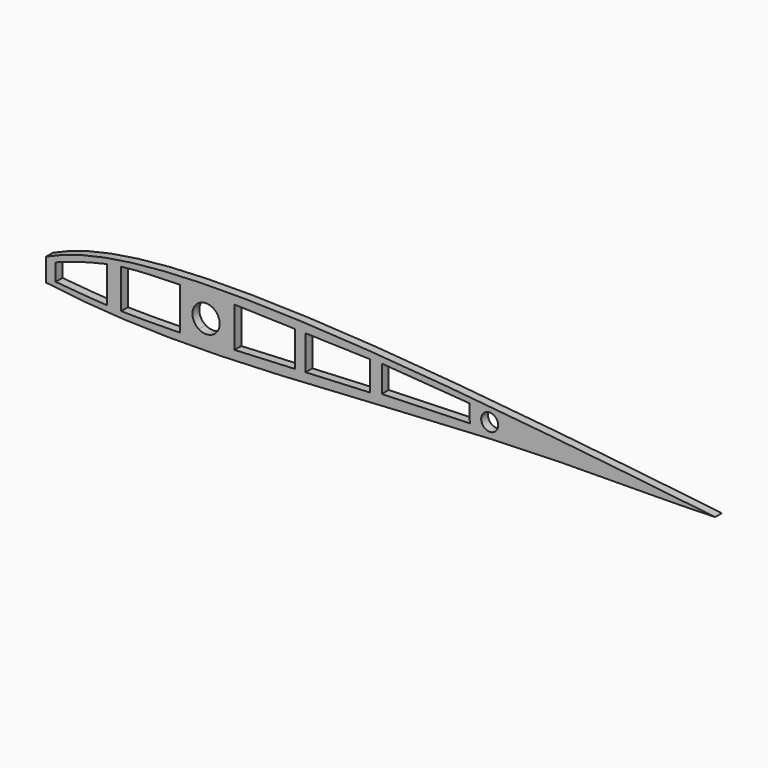
from build123d import *

# Parameters (mm, degrees)
F2_DEPTH = 2.5
F1_R     = 2.5
F3_DEPTH = 2.5
F5_DEPTH = 2.5
F6_DEPTH = 2.5
F7_DEPTH = 2.5
F8_DEPTH = 2.5


with BuildPart() as f2:
    # F0 (on Front) → F2 (new body)
    with BuildSketch(Plane.XZ):
        with BuildLine():
            add(Edge.make_bspline(
                [(-96.9805282175, -0.8100506688), (-84.7869920978, 5.1468541776), (-38.6381415733, 10.9636146396), (42.6881882799, 2.4723259958), (100, -4.047003109)],
                knots=[0, 0, 0, 0, 0.374886421, 1, 1, 1, 1], degree=3))
            add(Edge.make_bspline(
                [(-97.5447368223, -7.1186651935), (-99.939251346, -6.5508492693), (-102.885147974, -5.168950634), (-100.0067471137, -2.3789404522), (-96.9805282175, -0.8100506688)],
                knots=[0.0564585679, 0.0564585679, 0.0564585679, 0.0564585679, 0.4847104148, 1, 1, 1, 1], degree=3))
            add(Edge.make_bspline(
                [(-96.5428845142, -7.3406707446), (-96.8949965543, -7.2673488468), (-97.22905608, -7.1935231869), (-97.5447368223, -7.1186651935)],
                knots=[0, 0, 0, 0, 0.0564585679, 0.0564585679, 0.0564585679, 0.0564585679], degree=3))
            add(Edge.make_bspline(
                [(-96.5428845142, -7.3406707446), (-80.7020161693, -9.4302402111), (-44.2471235075, -11.1181020976), (41.8622965332, -3.5518856086), (82.0915186506, -4.6802794425), (100, -4.047003109)],
                knots=[0, 0, 0, 0, 0.2987594418, 0.6837410955, 1, 1, 1, 1], degree=3))
        make_face()
        with BuildLine():
            add(Edge.make_bspline(
                [(-99.8196757147, -4.047003109), (-99.3821638101, -3.2227137691), (-97.9006497107, -2.3042858417), (-96.3385477662, -1.6362179573)],
                knots=[0.5425000514, 0.5425000514, 0.5425000514, 0.5425000514, 1, 1, 1, 1], degree=3))
            add(Edge.make_bspline(
                [(-96.3385477662, -1.6362179573), (-85.7442874691, 3.2900694446), (-38.7960585931, 10.0747672146), (36.943279708, 1.696590452), (86.094097513, -3.3751911245)],
                knots=[0, 0, 0, 0, 0.384923117, 1, 1, 1, 1], degree=3))
            add(Edge.make_bspline(
                [(-97.3825784566, -6.0471531808), (-82.3468325761, -8.841713568), (-44.2551066449, -8.6286827794), (40.9195716837, -3.3120714751), (72.7341022162, -3.1550192186), (86.094097513, -3.3751911245)],
                knots=[0, 0, 0, 0, 0.3131273629, 0.7122131732, 1, 1, 1, 1], degree=3))
            add(Edge.make_bspline(
                [(-97.3825784566, -6.0471531808), (-98.6588937786, -5.8946130057), (-100.1661659123, -5.1778479876), (-99.9138553768, -4.2244412327), (-99.8196757147, -4.047003109)],
                knots=[0, 0, 0, 0, 0.4440177242, 0.5425000514, 0.5425000514, 0.5425000514, 0.5425000514], degree=3))
        make_face(mode=Mode.SUBTRACT)
        with BuildLine():
            add(Edge.make_bspline(
                [(-96.3385477662, -1.6362179573), (-85.7442874691, 3.2900694446), (-38.7960585931, 10.0747672146), (36.943279708, 1.696590452), (86.094097513, -3.3751911245)],
                knots=[0, 0, 0, 0, 0.384923117, 1, 1, 1, 1], degree=3))
            add(Edge.make_bspline(
                [(-99.8196757147, -4.047003109), (-99.3821638101, -3.2227137691), (-97.9006497107, -2.3042858417), (-96.3385477662, -1.6362179573)],
                knots=[0.5425000514, 0.5425000514, 0.5425000514, 0.5425000514, 1, 1, 1, 1], degree=3))
            add(Edge.make_bspline(
                [(-97.3825784566, -6.0471531808), (-98.6588937786, -5.8946130057), (-100.1661659123, -5.1778479876), (-99.9138553768, -4.2244412327), (-99.8196757147, -4.047003109)],
                knots=[0, 0, 0, 0, 0.4440177242, 0.5425000514, 0.5425000514, 0.5425000514, 0.5425000514], degree=3))
            add(Edge.make_bspline(
                [(-97.3825784566, -6.0471531808), (-82.3468325761, -8.841713568), (-44.2551066449, -8.6286827794), (40.9195716837, -3.3120714751), (72.7341022162, -3.1550192186), (86.094097513, -3.3751911245)],
                knots=[0, 0, 0, 0, 0.3131273629, 0.7122131732, 1, 1, 1, 1], degree=3))
        make_face()
        with BuildLine():
            add(Edge.make_bspline(
                [(-96.5428845142, -7.3406707446), (-96.8949965543, -7.2673488468), (-97.22905608, -7.1935231869), (-97.5447368223, -7.1186651935)],
                knots=[0, 0, 0, 0, 0.0564585679, 0.0564585679, 0.0564585679, 0.0564585679], degree=3))
            ThreePointArc((-97.5447368223, -7.1186651935), (-97.052492706, -7.2688477084), (-96.5428845142, -7.3406707446))
        make_face()
    extrude(amount=F2_DEPTH)


with BuildPart() as f2b:
    # F1 (on Front) → F2, piece 2 (new body)
    with BuildSketch(Plane.XZ):
        with Locations((33.7789729238, -1.0305350879)):
            Circle(F1_R)
    extrude(amount=F2_DEPTH)


with BuildPart() as f2c:
    # F1 (on Front) → F2, piece 3 (new body)
    with BuildSketch(Plane.XZ):
        with BuildLine():
            ThreePointArc((-45.542362095, -1.3708024857), (-51.4789804014, 2.1291274472), (-51.6671168627, -4.7598166753))
            Line((-51.6671168627, -4.7598166753), (-47.385046135, -4.7391830831))
            ThreePointArc((-47.385046135, -4.7391830831), (-46.0331411102, -3.2905337378), (-45.542362095, -1.3708024857))
        make_face()
        with BuildLine():
            Line((-47.385046135, -4.7391830831), (-51.6671168627, -4.7598166753))
            ThreePointArc((-51.6671168627, -4.7598166753), (-49.523087913, -5.3707560487), (-47.385046135, -4.7391830831))
        make_face()
    extrude(amount=F2_DEPTH)


with BuildPart() as f3_tool:
    # F1 (on Front) → F3 (new body)
    with BuildSketch(Plane.XZ):
        with BuildLine():
            ThreePointArc((-45.542362095, -1.3708024857), (-51.4789804014, 2.1291274472), (-51.6671168627, -4.7598166753))
            Line((-51.6671168627, -4.7598166753), (-47.385046135, -4.7391830831))
            ThreePointArc((-47.385046135, -4.7391830831), (-46.0331411102, -3.2905337378), (-45.542362095, -1.3708024857))
        make_face()
        with BuildLine():
            Line((-47.385046135, -4.7391830831), (-51.6671168627, -4.7598166753))
            ThreePointArc((-51.6671168627, -4.7598166753), (-49.523087913, -5.3707560487), (-47.385046135, -4.7391830831))
        make_face()
        with Locations((33.7789729238, -1.0305350879)):
            Circle(F1_R)
    extrude(amount=F3_DEPTH)


with BuildPart() as f2_1:
    add(f2.part)

    # F3: cut by f3_tool
    add(f3_tool.part, mode=Mode.SUBTRACT)

    # F4 (on face) → F5 (cut)
    with BuildSketch(Plane.XZ.offset(2.5)):
        with BuildLine():
            Line((-96.5428845142, -7.3406707446), (-96.5428845142, -0.5989118026))
            add(Edge.make_bspline(
                [(-96.9805282175, -0.8100506688), (-96.8353706427, -0.7391368787), (-96.6894893165, -0.6687582494), (-96.5428845142, -0.5989118026)],
                knots=[0, 0, 0, 0, 0.0044628238, 0.0044628238, 0.0044628238, 0.0044628238], degree=3))
            add(Edge.make_bspline(
                [(-96.9805282175, -0.8100506688), (-100.0067471137, -2.3789404522), (-102.885147974, -5.168950634), (-99.939251346, -6.5508492693), (-97.5447368223, -7.1186651935)],
                knots=[0.0564585679, 0.0564585679, 0.0564585679, 0.0564585679, 0.5717481532, 1, 1, 1, 1], degree=3))
            ThreePointArc((-97.5447368223, -7.1186651935), (-97.052492706, -7.2688477084), (-96.5428845142, -7.3406707446))
        make_face()
    extrude(amount=-F5_DEPTH, mode=Mode.SUBTRACT)

    # F4 (on face) → F6 (cut)
    with BuildSketch(Plane.XZ.offset(2.5)):
        with BuildLine():
            Line((-57.251535356, -7.4831936508), (-57.251535356, 4.8988820054))
            add(Edge.make_bspline(
                [(-57.251535356, 4.8988820054), (-63.1249518816, 4.7812850577), (-68.9983684072, 4.66368811), (-74.4892291338, 3.9601280834)],
                knots=[0, 0, 0, 0, 0.4418705618, 0.4418705618, 0.4418705618, 0.4418705618], degree=3))
            Line((-74.4892291338, 3.9601280834), (-74.4892291338, -7.5306241193))
            add(Edge.make_bspline(
                [(-57.251535356, -7.4831936508), (-63.0319736557, -7.5857864832), (-68.8124119553, -7.6883793156), (-74.4892291338, -7.5306241193)],
                knots=[0, 0, 0, 0, 0.4658094847, 0.4658094847, 0.4658094847, 0.4658094847], degree=3))
        make_face()
        Polygon((-23.3604289876, 4.4652832618), (-41.2043631077, 4.9979379401), (-41.2043631077, -6.7306268347), (-23.3604289876, -5.8693838368), align=None)
        Polygon((27.7735989974, 1.9125135442), (2.0833725575, 3.8092588075), (2.0833725575, -4.047003109), (27.937149629, -3.2237600535), align=None)
    extrude(amount=-F6_DEPTH, mode=Mode.SUBTRACT)

    # F4 (on face) → F7 (cut)
    with BuildSketch(Plane.XZ.offset(2.5)):
        Polygon((-20.3180073822, -5.7225404173), (-1.3836068101, -4.8086657189), (-1.3836068101, 3.8092588075), (-20.3180073822, 4.3744647187), align=None)
    extrude(amount=-F7_DEPTH, mode=Mode.SUBTRACT)

    # F4 (on face) → F8 (cut)
    with BuildSketch(Plane.XZ.offset(2.5)):
        with BuildLine():
            Line((-78.6215588156, -7.3670944992), (-78.6215588156, 3.2958948603))
            add(Edge.make_bspline(
                [(-78.6215588156, 3.2958948603), (-83.9345486349, 2.2532028855), (-88.8194569144, 0.5548157735), (-93.7043651938, -1.1435713386)],
                knots=[0.554896308, 0.554896308, 0.554896308, 0.554896308, 1, 1, 1, 1], degree=3))
            Line((-93.7043651938, -1.1435713386), (-93.7043651938, -6.1954581179))
            add(Edge.make_bspline(
                [(-78.6215588156, -7.3670944992), (-83.7013643272, -7.1077100258), (-88.7028647605, -6.6515840718), (-93.7043651938, -6.1954581179)],
                knots=[0.5793594661, 0.5793594661, 0.5793594661, 0.5793594661, 1, 1, 1, 1], degree=3))
        make_face()
    extrude(amount=-F8_DEPTH, mode=Mode.SUBTRACT)


with BuildPart() as f2b_1:
    add(f2b.part)

    # F3: cut by f3_tool
    add(f3_tool.part, mode=Mode.SUBTRACT)


with BuildPart() as f2c_1:
    add(f2c.part)

    # F3: cut by f3_tool
    add(f3_tool.part, mode=Mode.SUBTRACT)


solid = f2_1.part
